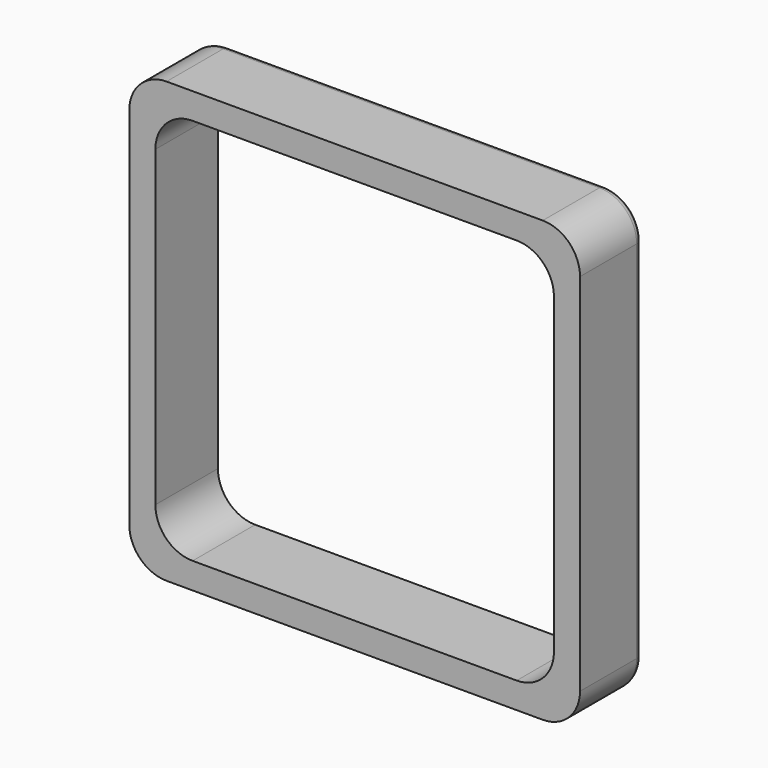
from build123d import *

# Parameters (mm, degrees)
F1_DEPTH = 2.1
F2_R     = 0.2


with BuildPart() as f1:
    # F0 (on Front) → F1 (new body)
    with BuildSketch(Plane.XZ):
        with BuildLine():
            ThreePointArc((-27.8, 118.9), (-28.092893, 119.607107), (-28.8, 119.9))
            Line((-28.8, 119.9), (-38.9, 119.9))
            ThreePointArc((-38.9, 119.9), (-39.607107, 119.607107), (-39.9, 118.9))
            Line((-39.9, 118.9), (-39.9, 109.1))
            ThreePointArc((-39.9, 109.1), (-39.607107, 108.392893), (-38.9, 108.1))
            Line((-38.9, 108.1), (-28.8, 108.1))
            ThreePointArc((-28.8, 108.1), (-28.092893, 108.392893), (-27.8, 109.1))
            Line((-27.8, 109.1), (-27.8, 118.9))
        make_face()
        with BuildLine():
            Line((-38.2, 119.2), (-29.5, 119.2))
            ThreePointArc((-29.5, 119.2), (-28.792893, 118.907107), (-28.5, 118.2))
            Line((-28.5, 118.2), (-28.5, 109.8))
            ThreePointArc((-28.5, 109.8), (-28.792893, 109.092893), (-29.5, 108.8))
            Line((-29.5, 108.8), (-38.2, 108.8))
            ThreePointArc((-38.2, 108.8), (-38.907107, 109.092893), (-39.2, 109.8))
            Line((-39.2, 109.8), (-39.2, 118.2))
            ThreePointArc((-39.2, 118.2), (-38.907107, 118.907107), (-38.2, 119.2))
        make_face(mode=Mode.SUBTRACT)
    extrude(amount=-F1_DEPTH)

    # F2
    f2_edges = [f1.edges().sort_by_distance(p)[0] for p in [
        (-39.9, 2.1, 114),
        (-33.85, 2.1, 119.9),
        (-33.85, 2.1, 108.1),
        (-28.092893, 2.1, 108.392893),
        (-28.092893, 2.1, 119.607107),
        (-39.607107, 2.1, 119.607107),
        (-39.607107, 2.1, 108.392893),
        (-27.8, 2.1, 114),
    ]]
    fillet(f2_edges, radius=F2_R)


solid = f1.part
